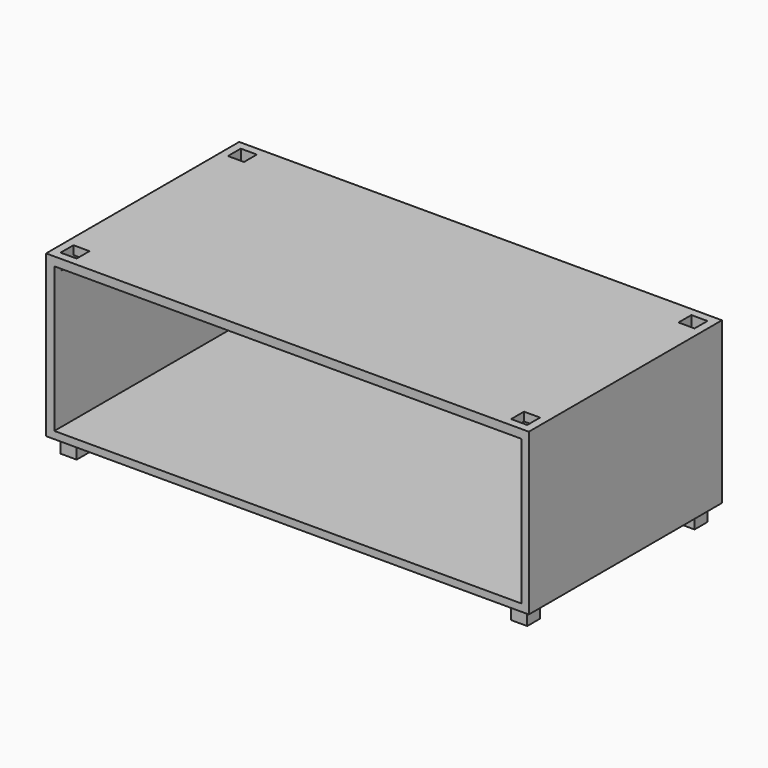
from build123d import *

# Parameters (mm, degrees)
F0_W     = 152.4
F0_H     = 50.8
F1_DEPTH = 76.2
F2_W     = 147.48656
F2_H     = 45.76164
F3_DEPTH = 71.12
F4_W     = 5.08
F4_H     = 5.080001
F4_H_2   = 5.08
F5_DEPTH = 5.08
F6_W     = 5.08
F6_H     = 5.08
F7_DEPTH = 5.08


with BuildPart() as f1:
    # F0 (on Front) → F1 (new body)
    with BuildSketch(Plane.XZ):
        with Locations((5.538031, -3.279099)):
            Rectangle(F0_W, F0_H)
    extrude(amount=-F1_DEPTH)

    # F2 (on Front) → F3 (cut)
    with BuildSketch(Plane.XZ):
        with Locations((5.683769, -3.497704)):
            Rectangle(F2_W, F2_H)
    extrude(amount=-F3_DEPTH, mode=Mode.SUBTRACT)

    # F4 (on face) → F5 (join)
    with BuildSketch(Plane(origin=(0, 0, -28.679099), x_dir=(1, 0, 0), z_dir=(0, 0, -1))):
        with Locations((-65.581969, -5.08)):
            Rectangle(F4_W, F4_H)
        with Locations((76.658031, -5.08)):
            Rectangle(F4_W, F4_H)
        with Locations((76.658031, -71.12)):
            Rectangle(F4_W, F4_H)
        with Locations((-65.581969, -71.12)):
            Rectangle(F4_W, F4_H_2)
    extrude(amount=F5_DEPTH)

    # F6 (on face) → F7 (cut)
    with BuildSketch(Plane.XY.offset(22.120901)):
        with Locations((-65.581969, 71.12)):
            Rectangle(F6_W, F6_H)
        with Locations((-65.581969, 5.08)):
            Rectangle(F6_W, F6_H)
        with Locations((76.658031, 71.12)):
            Rectangle(F6_W, F6_H)
        with Locations((76.658031, 5.08)):
            Rectangle(F6_W, F6_H)
    extrude(amount=-F7_DEPTH, mode=Mode.SUBTRACT)


solid = f1.part
